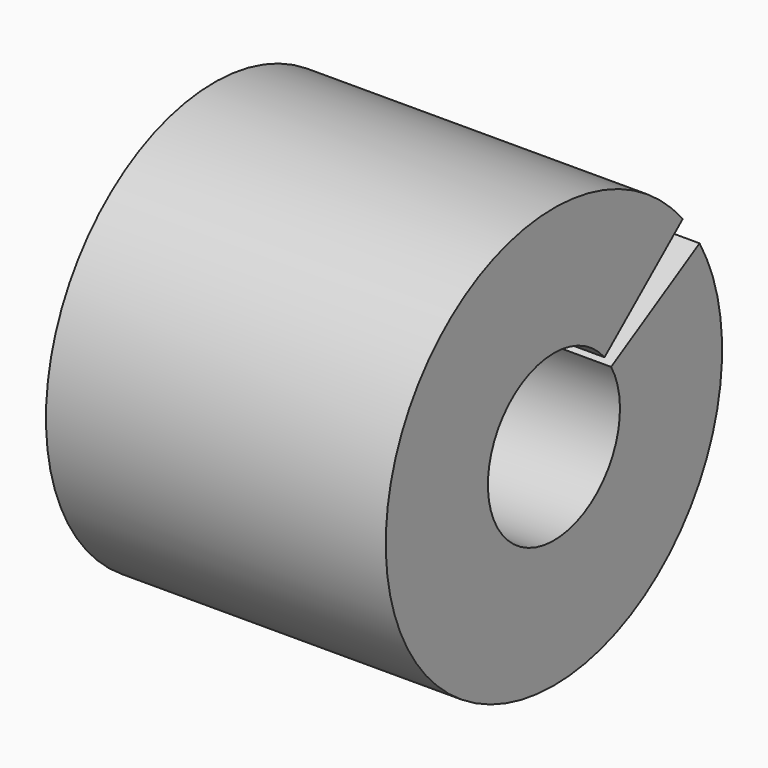
from build123d import *

# Parameters (mm, degrees)
F0_W          = 120.5558367074
F0_H          = 45.3007780015
F1_ANGLE_BACK = 320
F1_ANGLE      = 350


with BuildPart() as f1:
    # F0 (on Top) → F1 (revolve)
    with BuildSketch(Plane.XY, mode=Mode.PRIVATE) as f1_sk:
        with Locations((5.3173732013, 22.6503890008)):
            Rectangle(F0_W, F0_H)
    revolve(f1_sk.sketch.rotate(Axis((9.5657669008, -29.2806569487, 0), (1, 0, 0)), -F1_ANGLE_BACK), axis=Axis((9.5657669008, -29.2806569487, 0), (1, 0, 0)), revolution_arc=F1_ANGLE)


solid = f1.part
